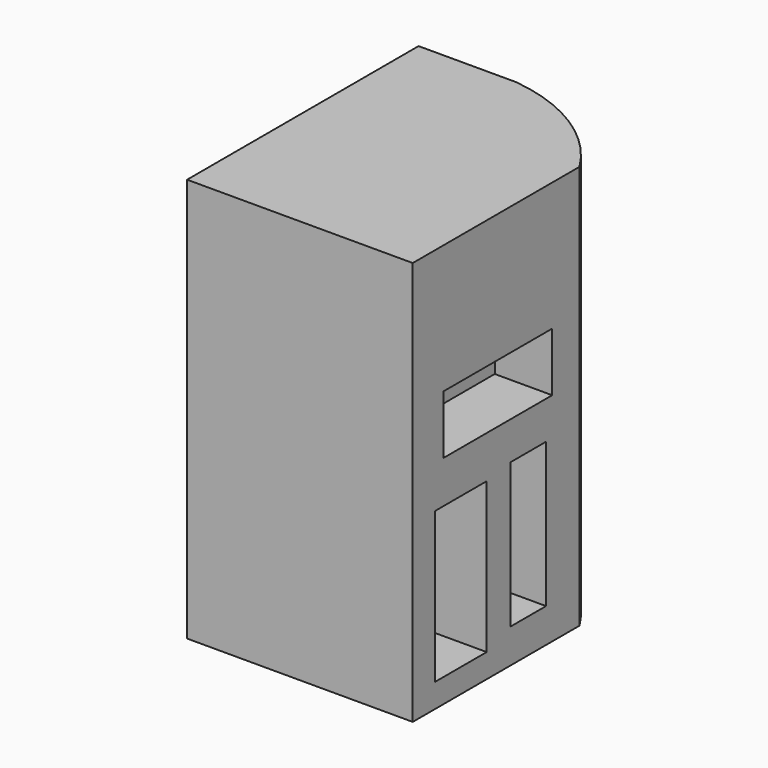
from build123d import *

# Parameters (mm, degrees)
F0_W      = 58.878030628
F0_H      = 75.4921324551
F1_DEPTH  = 25.4
F3_DEPTH  = 25.4
F4_DEPTH  = 80.01
F5_W      = 16.8407969177
F5_H      = 39.2584712245
F6_DEPTH  = 29.972
F7_W      = 11.6147371009
F7_H      = 37.7531396225
F8_DEPTH  = 27.178
F10_W     = 35.4502582923
F10_H     = 15.3018832207
F11_DEPTH = 14.986


with BuildPart() as f1:
    # F0 (on Top) → F1 (new body)
    with BuildSketch(Plane.XY):
        with Locations((-1.4573782682, -3.2062288374)):
            Rectangle(F0_W, F0_H)
    extrude(amount=F1_DEPTH)

    # F2 (on face) → F3 (cut)
    with BuildSketch(Plane.XY.offset(25.4)):
        with BuildLine():
            ThreePointArc((-5.4399550781, 34.5398373902), (13.6686067521, 27.7903712145), (27.9816370457, 13.4436087683))
            Line((27.9816370457, 13.4436087683), (27.9816370457, 34.5398373902))
            Line((27.9816370457, 34.5398373902), (-5.4399550781, 34.5398373902))
        make_face()
    extrude(amount=-F3_DEPTH, mode=Mode.SUBTRACT)

    # F4 (add): a face of the model
    f4_faces = [f1.faces().sort_by_distance(p)[0] for p in [
        (-2.600266852, -4.9615268336, 25.4),
    ]]
    extrude(f4_faces, amount=F4_DEPTH)

    # F5 (on face) → F6 (cut)
    with BuildSketch(Plane.YZ.offset(27.9816370457)):
        with Locations((-25.2520013601, 25.8709422778)):
            Rectangle(F5_W, F5_H)
    extrude(amount=-F6_DEPTH, mode=Mode.SUBTRACT)

    # F7 (on face) → F8 (cut)
    with BuildSketch(Plane.YZ.offset(27.9816370457)):
        with Locations((-3.284684848, 27.8146467172)):
            Rectangle(F7_W, F7_H)
    extrude(amount=-F8_DEPTH, mode=Mode.SUBTRACT)

    # F10 (on face) → F11 (cut)
    with BuildSketch(Plane.YZ.offset(27.9816370457)):
        with Locations((-13.1954229437, 64.2097368836)):
            Rectangle(F10_W, F10_H)
    extrude(amount=-F11_DEPTH, mode=Mode.SUBTRACT)


solid = f1.part
